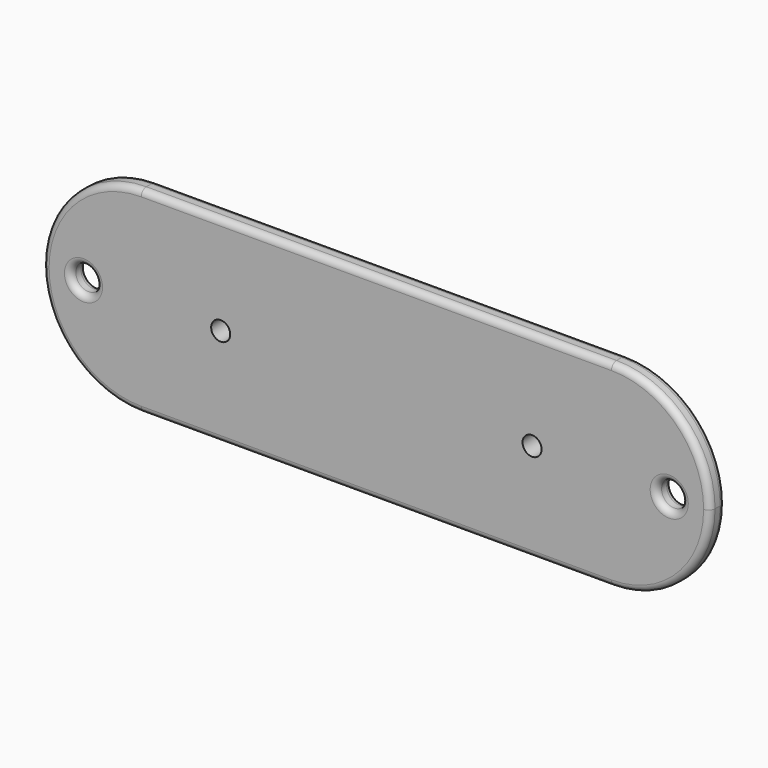
from build123d import *

# Parameters (mm, degrees)
F1_DEPTH = 3
F2_R     = 1
F3_R     = 2
F4_DEPTH = 25
F3_R_2   = 1.5
F5_DEPTH = 25
F6_R     = 1
F7_R     = 1


with BuildPart() as f1:
    # F0 (on Front) → F1 (new body)
    with BuildSketch(Plane.XZ):
        with BuildLine():
            Line((37, 15.5), (-37, 15.5))
            ThreePointArc((-37, 15.5), (-47.9601551084, 10.9601551084), (-52.5, 0))
            ThreePointArc((-52.5, 0), (-47.9601551084, -10.9601551084), (-37, -15.5))
            Line((-37, -15.5), (37, -15.5))
            ThreePointArc((37, -15.5), (47.9601551084, -10.9601551084), (52.5, 0))
            ThreePointArc((52.5, 0), (47.9601551084, 10.9601551084), (37, 15.5))
        make_face()
    extrude(amount=F1_DEPTH)

    # F2
    f2_edges = [f1.edges().sort_by_distance(p)[0] for p in [
        (-52.5, -3, 0),
        (0, -3, -15.5),
    ]]
    fillet(f2_edges, radius=F2_R)

    # F3 (on face) → F4 (cut)
    with BuildSketch(Plane.XZ.offset(3)):
        with Locations((-46.09, 0)):
            Circle(F3_R)
        with Locations((46.09, 0)):
            Circle(F3_R)
    extrude(amount=-F4_DEPTH, mode=Mode.SUBTRACT)

    # F3 (on face) → F5 (cut)
    with BuildSketch(Plane.XZ.offset(3)):
        with Locations((24.5, 0)):
            Circle(F3_R_2)
        with Locations((-24.5, 0)):
            Circle(F3_R_2)
    extrude(amount=-F5_DEPTH, mode=Mode.SUBTRACT)

    # F6
    f6_edges = [f1.edges().sort_by_distance(p)[0] for p in [
        (-48.09, -3, 0),
        (44.09, -3, 0),
        (44.09, 0, 0),
        (-48.09, 0, 0),
    ]]
    fillet(f6_edges, radius=F6_R)

    # F7
    f7_edges = [f1.edges().sort_by_distance(p)[0] for p in [
        (-52.5, 0, 0),
    ]]
    fillet(f7_edges, radius=F7_R)


solid = f1.part
